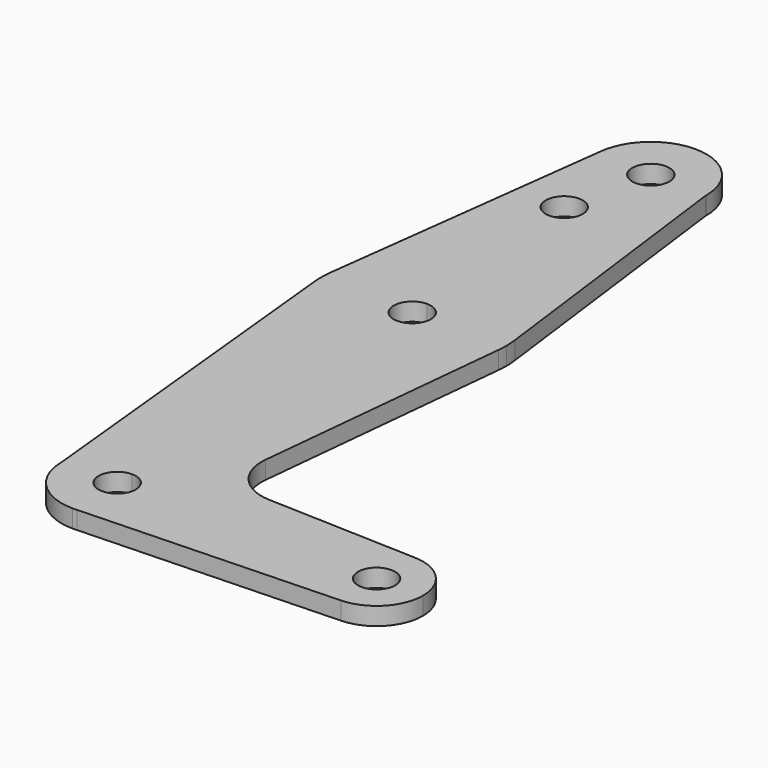
from build123d import *

# Parameters (mm, degrees)
F0_R     = 3.175
F1_DEPTH = 3.048


with BuildPart() as f1:
    # F0 (on Top) → F1 (new body)
    with BuildSketch(Plane.XY):
        with BuildLine():
            ThreePointArc((-9.4642505085, 115.3740518203), (-7.1047860133, 107.9558971709), (0, 104.775))
            ThreePointArc((0, 104.775), (6.6594804909, 107.4899379892), (9.5226194442, 114.0870588785))
            ThreePointArc((9.5226194442, 114.0870588785), (9.5244048425, 114.1935227862), (9.525, 114.3))
            ThreePointArc((9.525, 114.3), (0.5378842379, 123.8098004998), (-9.4642505085, 115.3740518203))
        make_face()
        with BuildLine():
            ThreePointArc((3.175, 114.3), (2.2450640303, 112.0549359697), (0, 111.125))
            ThreePointArc((0, 111.125), (-2.2450640303, 116.5450640303), (3.175, 114.3))
        make_face(mode=Mode.SUBTRACT)
        with BuildLine():
            ThreePointArc((9.5226194442, 114.0870588785), (6.6594804909, 107.4899379892), (0, 104.775))
            Line((0, 104.775), (0, 99.7244715691))
            Line((0, 99.7244715691), (0, 79.375))
            ThreePointArc((0, 79.375), (10.487718202, 75.4173567504), (15.7462525116, 65.5177107925))
            Line((15.7462525116, 65.5177107925), (9.5226194442, 114.0870588785))
        make_face()
        with BuildLine():
            Line((0, 99.7244715691), (0, 104.775))
            ThreePointArc((0, 104.775), (-7.1047860133, 107.9558971709), (-9.4642505085, 115.3740518203))
            Line((-9.4642505085, 115.3740518203), (-15.7504597174, 65.4846016457))
            ThreePointArc((-15.7504597174, 65.4846016457), (-10.5002398514, 75.4063255483), (0, 79.375))
            Line((0, 79.375), (0, 99.7244715691))
        make_face()
        with Locations((-3.175, 99.7244715691)):
            Circle(F0_R, mode=Mode.SUBTRACT)
        with BuildLine():
            ThreePointArc((52.3875, 0), (50.1678686084, 5.5054413834), (44.7503636658, 7.9318149196))
            ThreePointArc((44.7503636658, 7.9318149196), (38.9445586166, 5.7178686084), (36.5125, 0))
            ThreePointArc((36.5125, 0), (38.9380895153, -5.7116327839), (44.7324052746, -7.9324746146))
            ThreePointArc((44.7324052746, -7.9324746146), (50.1616327839, -5.5119104847), (52.3875, 0))
        make_face()
        with BuildLine():
            ThreePointArc((47.625, 0), (44.45, -3.175), (41.275, 0))
            ThreePointArc((41.275, 0), (44.45, 3.175), (47.625, 0))
        make_face(mode=Mode.SUBTRACT)
        with BuildLine():
            ThreePointArc((15.7462525116, 65.5177107925), (10.487718202, 75.4173567504), (0, 79.375))
            Line((0, 79.375), (0, 66.3742715691))
            ThreePointArc((0, 66.3742715691), (2.2450640303, 65.4443355993), (3.175, 63.1992715691))
            ThreePointArc((3.175, 63.1992715691), (2.2450640303, 60.9542075388), (0, 60.0242715691))
            Line((0, 60.0242715691), (0, 47.625))
            ThreePointArc((0, 47.625), (10.6492737428, 51.7267849017), (15.7954255641, 61.9125))
            ThreePointArc((15.7954255641, 61.9125), (15.8550939106, 62.7052534459), (15.875, 63.5))
            ThreePointArc((15.875, 63.5), (15.8427804318, 64.5109071122), (15.7462525116, 65.5177107925))
        make_face()
        with BuildLine():
            Line((0, 66.3742715691), (0, 79.375))
            ThreePointArc((0, 79.375), (-10.5002398514, 75.4063255483), (-15.7504597174, 65.4846016457))
            ThreePointArc((-15.7504597174, 65.4846016457), (-15.8738178721, 63.6937296111), (-15.7942028036, 61.9003804205))
            ThreePointArc((-15.7942028036, 61.9003804205), (-10.644756084, 51.722700101), (0, 47.625))
            Line((0, 47.625), (0, 60.0242715691))
            ThreePointArc((0, 60.0242715691), (-3.175, 63.1992715691), (0, 66.3742715691))
        make_face()
        with BuildLine():
            ThreePointArc((0, 47.625), (-10.644756084, 51.722700101), (-15.7942028036, 61.9003804205))
            Line((-15.7942028036, 61.9003804205), (-9.525, 0))
            ThreePointArc((-9.525, 0), (-6.7351920908, 6.7351920908), (0, 9.525))
            Line((0, 9.525), (0, 47.625))
        make_face()
        with BuildLine():
            ThreePointArc((15.7954255641, 61.9125), (10.6492737428, 51.7267849017), (0, 47.625))
            Line((0, 47.625), (0, 9.525))
            ThreePointArc((0, 9.525), (6.7351920908, 6.7351920908), (9.525, 0))
            Line((9.525, 0), (36.5125, 0))
            ThreePointArc((36.5125, 0), (38.9445586166, 5.7178686084), (44.7503636658, 7.9318149196))
            Line((44.7503636658, 7.9318149196), (18.9683233945, 8.8496971118))
            ThreePointArc((18.9683233945, 8.8496971118), (13.2612019311, 11.5674556591), (11.3408350044, 17.5898835572))
            Line((11.3408350044, 17.5898835572), (15.7954255641, 61.9125))
        make_face()
        with BuildLine():
            ThreePointArc((0, 9.525), (-6.7351920908, 6.7351920908), (-9.525, 0))
            ThreePointArc((-9.525, 0), (-6.7351920908, -6.7351920908), (0, -9.525))
            Line((0, -9.525), (0.6773435479, -9.500885786))
            ThreePointArc((0.6773435479, -9.500885786), (6.9705567315, -6.4912990883), (9.525, 0))
            Line((9.525, 0), (3.175, 0))
            ThreePointArc((3.175, 0), (-2.2450640303, -2.2450640303), (0, 3.175))
            Line((0, 3.175), (0, 9.525))
        make_face()
        with BuildLine():
            Line((0.6773435479, -9.500885786), (0, -9.525))
            ThreePointArc((0, -9.525), (0.3388863295, -9.5189695375), (0.6773435479, -9.500885786))
        make_face()
        with BuildLine():
            Line((36.5125, 0), (9.525, 0))
            ThreePointArc((9.525, 0), (6.9705567315, -6.4912990883), (0.6773435479, -9.500885786))
            Line((0.6773435479, -9.500885786), (44.7324052746, -7.9324746146))
            ThreePointArc((44.7324052746, -7.9324746146), (38.9380895153, -5.7116327839), (36.5125, 0))
        make_face()
        with BuildLine():
            ThreePointArc((9.525, 0), (6.7351920908, 6.7351920908), (0, 9.525))
            Line((0, 9.525), (0, 3.175))
            ThreePointArc((0, 3.175), (2.2450640303, 2.2450640303), (3.175, 0))
            Line((3.175, 0), (9.525, 0))
        make_face()
    extrude(amount=F1_DEPTH)


solid = f1.part
